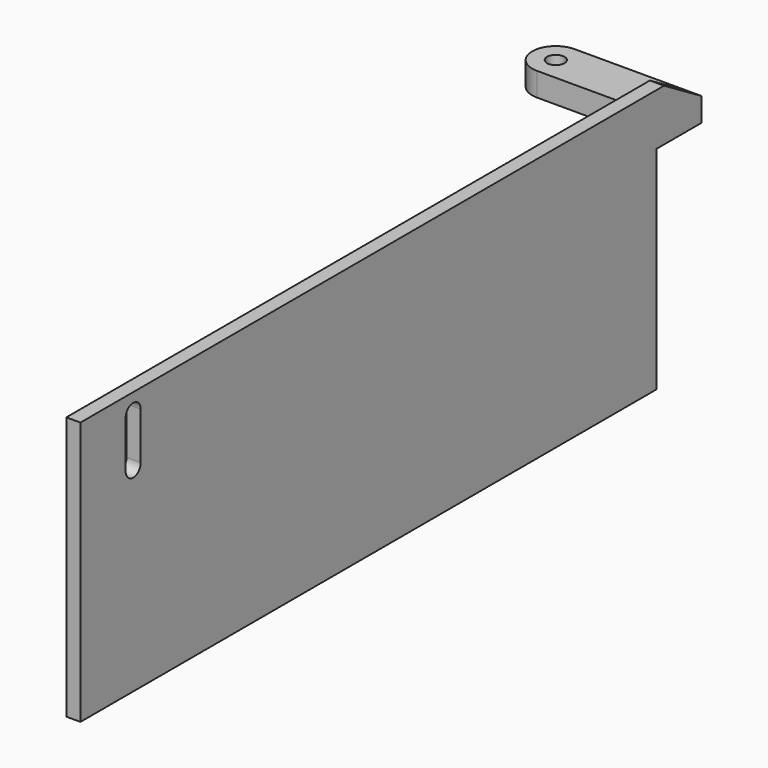
from build123d import *

# Parameters (mm, degrees)
SKETCH246_R     = 1.85
PAD021_DEPTH    = 5
PAD022_DEPTH    = 3
POCKET017_DEPTH = 5


with BuildPart() as part:
    # Sketch246 → Pad021 (new body)
    with BuildSketch(Plane.XY):
        with BuildLine():
            ThreePointArc((0, 5), (-5, 0), (0, -5))
            Line((0, -5), (24, -5))
            Line((24, -5), (24, 5))
            Line((0, 5), (24, 5))
        make_face()
        Circle(SKETCH246_R, mode=Mode.SUBTRACT)
    extrude(amount=PAD021_DEPTH)

    # Sketch247 (on Face3 of Pad021) → Pad022 (join)
    with BuildSketch(Plane.YZ.offset(24)):
        Polygon((-7, 0), (5, 0), (5, 5), (-5, 11), (-160, 11), (-160, -45), (-7, -45), align=None)
    extrude(amount=PAD022_DEPTH)

    # Sketch248 (on Face11 of Pad022) → Pocket017 (cut)
    with BuildSketch(Plane.YZ.offset(27)):
        with BuildLine():
            ThreePointArc((-144, 7), (-146, 9), (-148, 7))
            Line((-148, 7), (-148, -3))
            ThreePointArc((-148, -3), (-146, -5), (-144, -3))
            Line((-144, 7), (-144, -3))
        make_face()
    extrude(amount=-POCKET017_DEPTH, mode=Mode.SUBTRACT)


with BuildPart() as part_1:
    # Body011 placement: moved
    add(part.part.moved(Location((-96, 98, 234))))


solid = part_1.part
